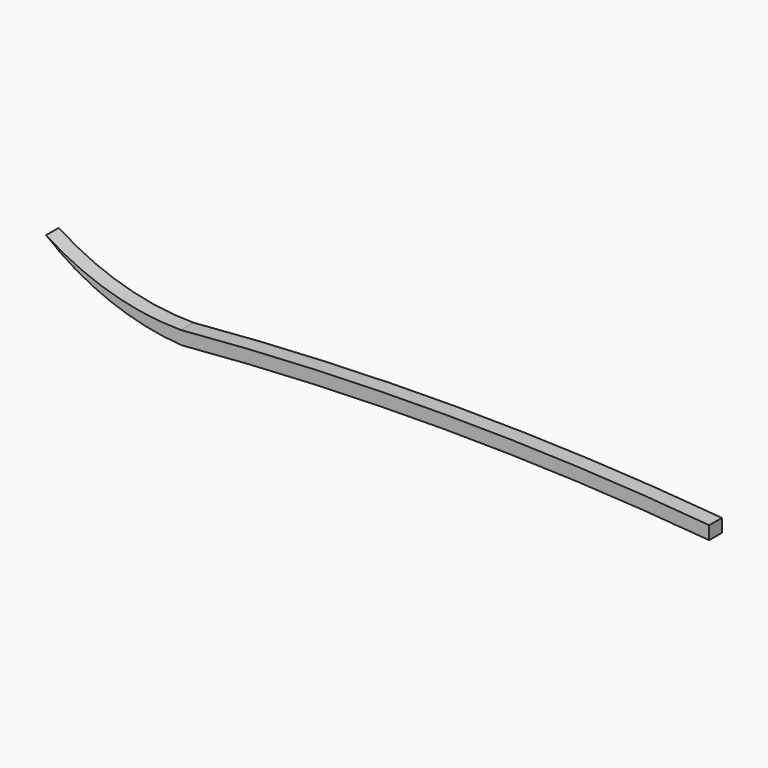
from build123d import *

# Parameters (mm, degrees)
F1_DEPTH = 1.5


with BuildPart() as f1:
    # F0 (on Front) → F1 (new body, symmetric)
    with BuildSketch(Plane.XZ):
        with BuildLine():
            Line((100, -2.5), (100, 0))
            ThreePointArc((100, 0), (50, 2.187736944), (0, 0))
            ThreePointArc((0, 0), (-13.2819680374, 1.9157530278), (-25.4811713734, 7.5068372317))
            ThreePointArc((-25.4811713734, 7.5068372317), (-13.4145892568, 0.4908203215), (0.2214126109, -2.490177888))
            ThreePointArc((0.2214126109, -2.490177888), (50.0013164202, -0.3122630575), (99.7812101684, -2.4904078382))
            Line((99.7812101684, -2.4904078382), (100, -2.5))
        make_face()
    extrude(amount=F1_DEPTH, both=True)


solid = f1.part
